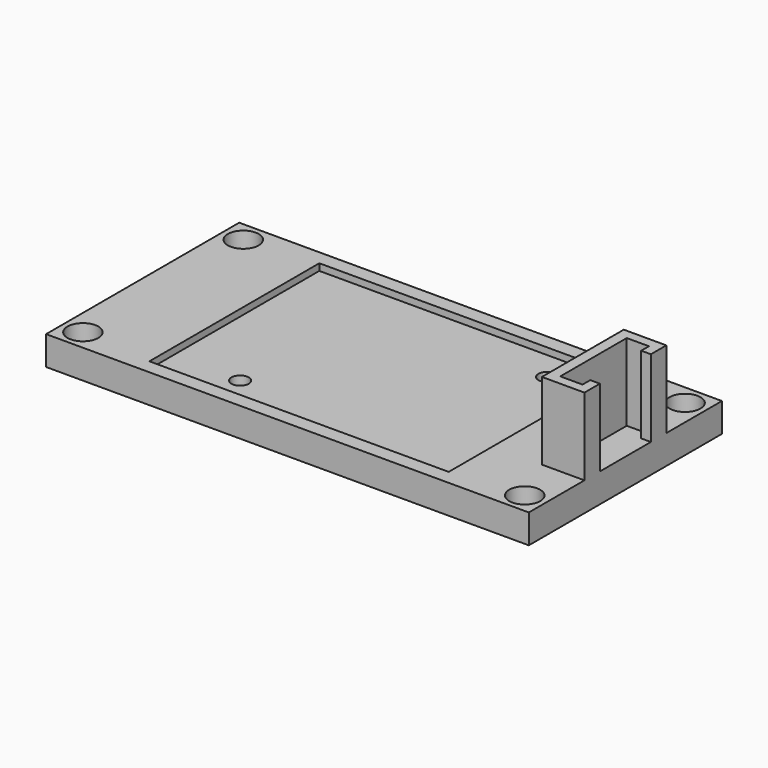
from build123d import *

# Parameters (mm, degrees)
F0_W     = 50
F0_H     = 25
F1_DEPTH = 3
F3_D     = 3.2
F4_W     = 31
F4_H     = 22
F5_DEPTH = 0.7
F7_D     = 1.8
F9_DEPTH = 8


with BuildPart() as f1:
    # F0 (on Top) → F1 (new body)
    with BuildSketch(Plane.XY):
        with Locations((25, 11.048387)):
            Rectangle(F0_W, F0_H)
    extrude(amount=F1_DEPTH)

    # F3 (through all)
    with Locations(Plane.XY.offset(3)):
        with Locations((2.12132, 21.427067), (47.87868, 21.427067), (47.87868, 0.669707), (2.12132, 0.669707)):
            Hole(F3_D / 2)

    # F4 (on face) → F5 (cut)
    with BuildSketch(Plane.XY.offset(3)):
        with Locations((25, 11.048387)):
            Rectangle(F4_W, F4_H)
    extrude(amount=-F5_DEPTH, mode=Mode.SUBTRACT)

    # F7 (through all)
    with Locations(Plane.XY.offset(2.3)):
        with Locations((16.5, 3.048387), (35.5, 19.048387)):
            Hole(F7_D / 2)

    # F8 (on face) → F9 (join)
    with BuildSketch(Plane.XY.offset(3)):
        Polygon((49, 15.348387), (49, 14.348387), (50, 14.348387), (50, 16.348387), (49, 16.348387), (45.595244, 16.348387), (45.595244, 15.348387), (45.595244, 6.748387), (45.595244, 5.748387), (49, 5.748387), (50, 5.748387), (50, 7.748387), (49, 7.748387), (49, 6.748387), (46.7, 6.748387), (46.7, 15.348387), align=None)
    extrude(amount=F9_DEPTH)


solid = f1.part
